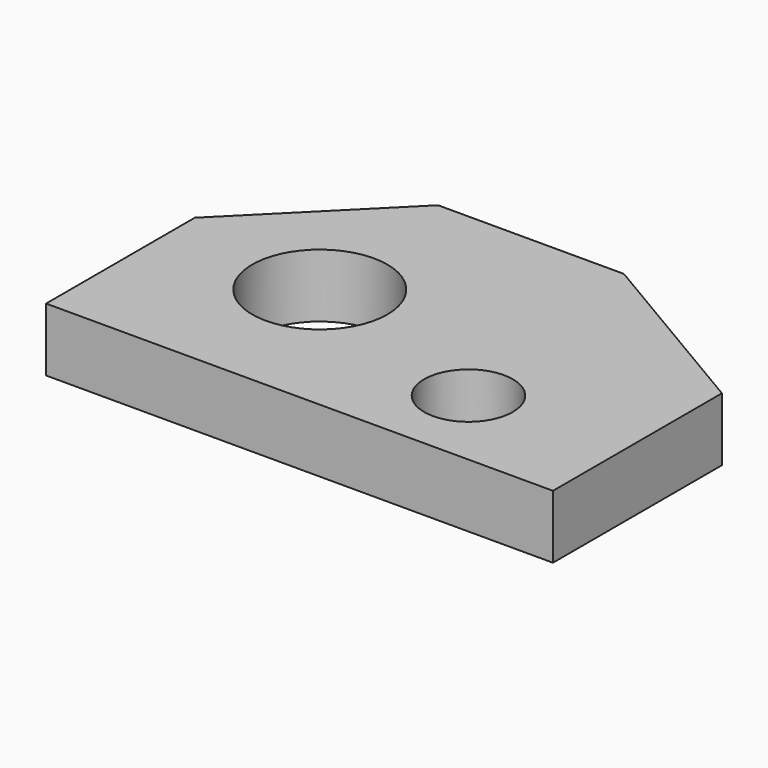
from build123d import *

# Parameters (mm, degrees)
F0_R     = 32
F0_R_2   = 21
F1_DEPTH = 30


with BuildPart() as f1:
    # F0 (on Top) → F1 (new body)
    with BuildSketch(Plane.XY):
        Polygon((-45.185506, 55.477947), (-45.185506, -32.522053), (194.814494, -32.522053), (194.814494, 67.477947), (106.814494, 119.477947), (18.814494, 119.477947), align=None)
        with Locations((26.814494, 39.477947)):
            Circle(F0_R, mode=Mode.SUBTRACT)
        with Locations((122.814494, 7.477947)):
            Circle(F0_R_2, mode=Mode.SUBTRACT)
    extrude(amount=F1_DEPTH)


solid = f1.part
